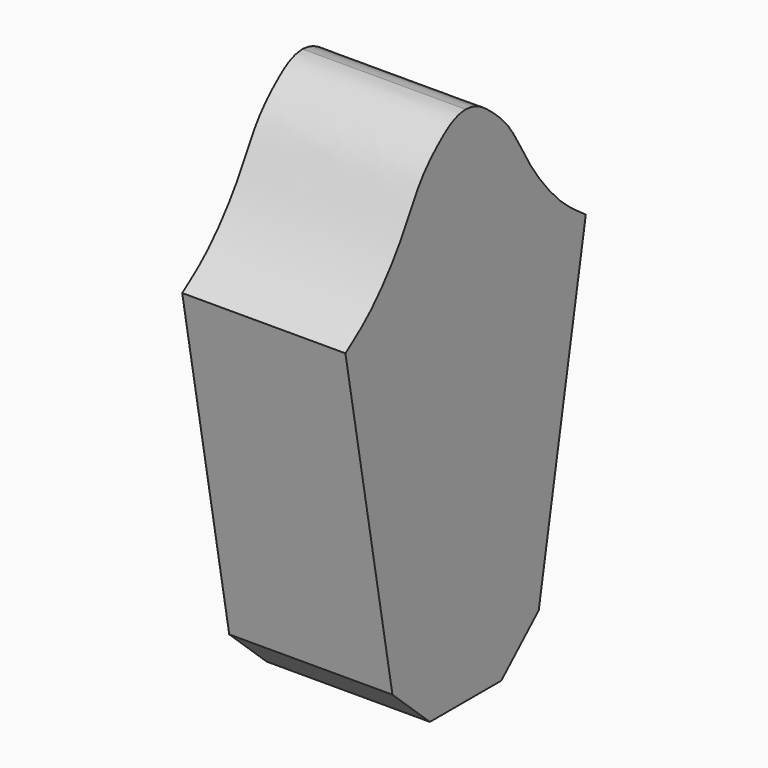
from build123d import *

# Parameters (mm, degrees)
F1_DEPTH = 65
F2_SCALE = 1.5


with BuildPart() as f1:
    # F0 (on Right) → F1 (new body)
    with BuildSketch(Plane.YZ):
        with BuildLine():
            add(Edge.make_bspline(
                [(0, 116.170451045), (0.9828145316, 116.098523156), (3.2124722619, 115.9353442766), (8.0579268571, 114.0720893794), (14.6187789397, 108.775157515), (23.1603373895, 100.5582162883), (31.6909696821, 83.1334415189), (42.0097439258, 70.0417832015), (49.7783168483, 62.0961919241), (56.4237470409, 57.3854542674), (59.8379671574, 54.9652203918)],
                knots=[0, 0, 0, 0, 0.0686098354, 0.155651392, 0.2675662145, 0.4017654935, 0.5745697868, 0.7344591888, 0.8635731995, 1, 1, 1, 1], degree=3))
            add(Edge.make_bspline(
                [(0, 116.170451045), (-0.9828145316, 116.098523156), (-3.2124722619, 115.9353442766), (-8.0579268571, 114.0720893794), (-14.6187789397, 108.775157515), (-23.1603373895, 100.5582162883), (-31.6909696821, 83.1334415189), (-42.0097439258, 70.0417832015), (-49.7783168483, 62.0961919241), (-56.4237470409, 57.3854542674), (-59.8379671574, 54.9652203918)],
                knots=[0, 0, 0, 0, 0.0686098354, 0.155651392, 0.2675662145, 0.4017654935, 0.5745697868, 0.7344591888, 0.8635731995, 1, 1, 1, 1], degree=3))
            Line((-59.8379671574, 54.9652203918), (-36.4224053919, -74.2475837469))
            Line((-36.4224053919, -74.2475837469), (-17.776966095, -91.3761481643))
            Line((-17.776966095, -91.3761481643), (0, -91.3761481643))
            Line((0, -91.3761481643), (17.776966095, -91.3761481643))
            Line((17.776966095, -91.3761481643), (36.4224053919, -74.2475837469))
            Line((36.4224053919, -74.2475837469), (59.8379671574, 54.9652203918))
        make_face()
    extrude(amount=F1_DEPTH)


with BuildPart() as f1_1:
    # F2: moved
    add(f1.part.scale(F2_SCALE))


solid = f1_1.part
